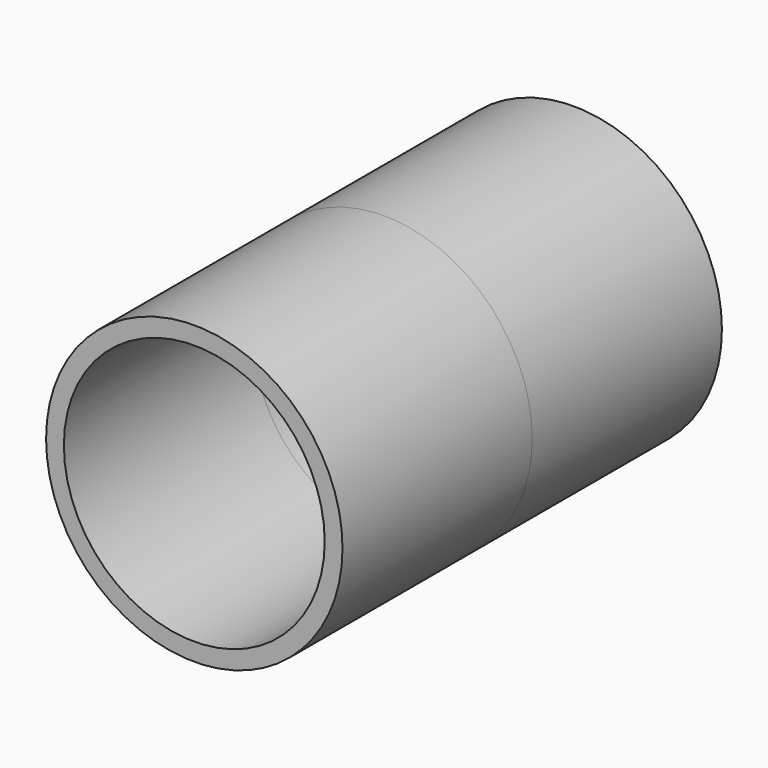
from build123d import *

# Parameters (mm, degrees)
F0_R      = 31.75
F1_DEPTH  = 50.8
F1_FACE_R = 31.75
F2_DEPTH  = 50.8
F3_R      = 27.939053
F4_DEPTH  = 50.8
F4_FACE_R = 27.939053
F5_DEPTH  = 50.8


with BuildPart() as f1:
    # F0 (on Front) → F1 (new body)
    with BuildSketch(Plane.XZ):
        Circle(F0_R)
    extrude(amount=-F1_DEPTH)

    # F1_face (on face) → F2 (join)
    with BuildSketch(Plane.XZ):
        Circle(F1_FACE_R)
    extrude(amount=F2_DEPTH)

    # F3 (on Front) → F4 (cut)
    with BuildSketch(Plane.XZ):
        Circle(F3_R)
    extrude(amount=-F4_DEPTH, mode=Mode.SUBTRACT)

    # F4_face (on face) → F5 (cut)
    with BuildSketch(Plane(origin=(0, 0, 0), x_dir=(1, 0, 0), z_dir=(0, 1, 0))):
        Circle(F4_FACE_R)
    extrude(amount=-F5_DEPTH, mode=Mode.SUBTRACT)


solid = f1.part
